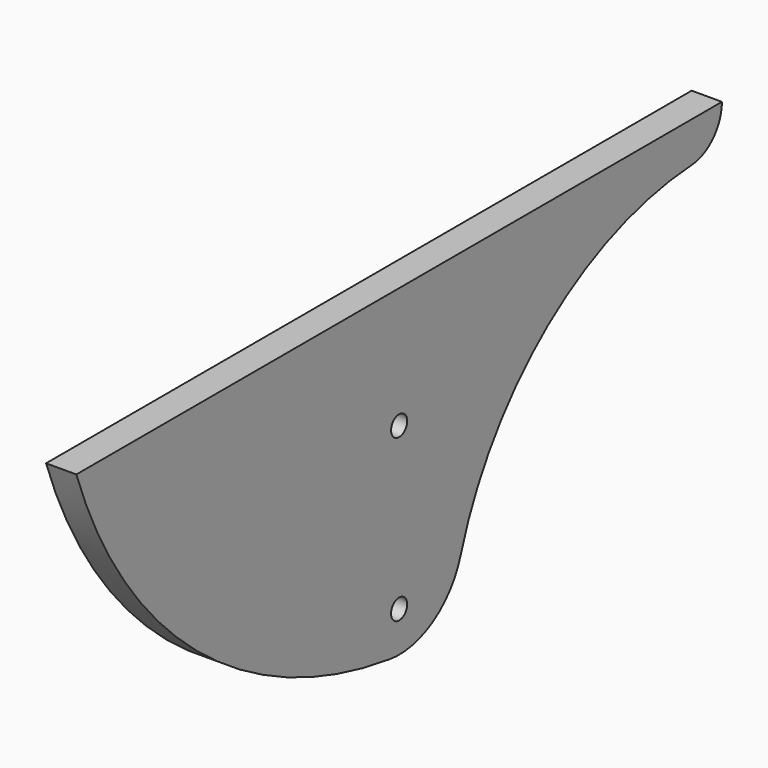
from build123d import *

# Parameters (mm, degrees)
F1_DEPTH = 19.05
F2_R     = 6.35
F3_DEPTH = 19.051


with BuildPart() as f1:
    # F0 (on Right) → F1 (new body)
    with BuildSketch(Plane.YZ):
        with BuildLine():
            ThreePointArc((-254, 0), (-159.564589, -136.006104), (-7.957927, -202.572815))
            ThreePointArc((-7.957927, -202.572815), (26.7802, -195.567823), (48.486376, -167.556231))
            ThreePointArc((48.486376, -167.556231), (117.175368, -68.177885), (230.136876, -25.353462))
            ThreePointArc((230.136876, -25.353462), (247.0959, -17.408667), (254, 0))
            Line((254, 0), (-254, 0))
        make_face()
    extrude(amount=F1_DEPTH)

    # F2 (on face) → F3 (cut, through all)
    with BuildSketch(Plane.YZ.offset(19.05)):
        with Locations((0, -177.8)):
            Circle(F2_R)
        with Locations((0, -76.2)):
            Circle(F2_R)
    extrude(amount=-F3_DEPTH, mode=Mode.SUBTRACT)


solid = f1.part
